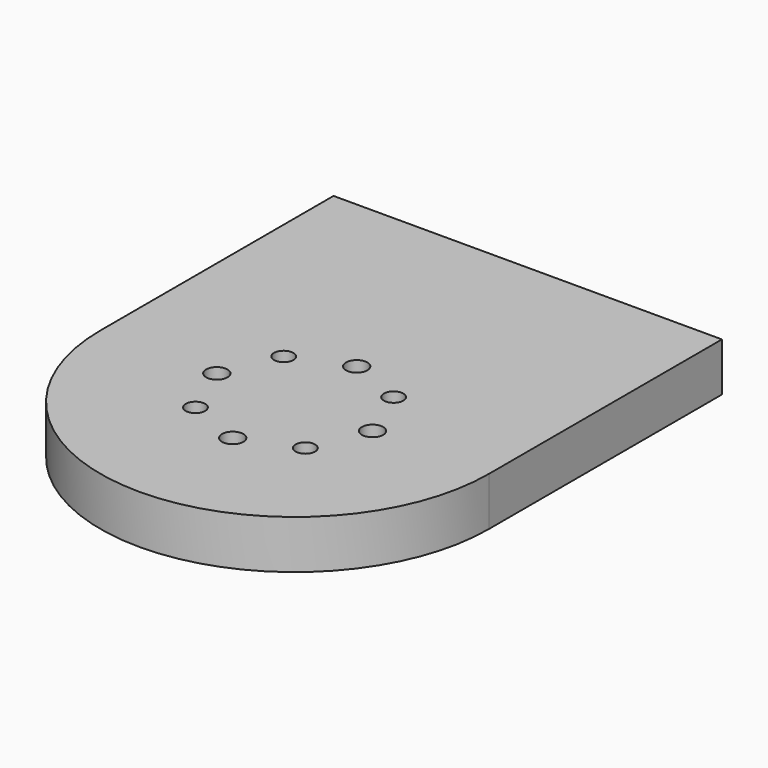
from build123d import *

# Parameters (mm, degrees)
SKETCH_W        = 29
SKETCH_H        = 47
PAD_DEPTH       = 40
SKETCH001_R     = 9.75
PAD001_DEPTH    = 10
SKETCH002_W     = 56
SKETCH002_H     = 6
POCKET_DEPTH    = 100
SKETCH003_W     = 54.44
SKETCH003_H     = 5.76
POCKET001_DEPTH = 40.001
SKETCH004_R     = 1.1
SKETCH004_R_2   = 1
POCKET002_DEPTH = 5
SKETCH005_W     = 54.27
SKETCH005_H     = 70.91
POCKET003_DEPTH = 50.001


with BuildPart() as part:
    # Sketch → Pad (new body)
    with BuildSketch(Plane.XY.offset(10)):
        with BuildLine():
            Line((0, 0), (40, 0))
            Line((40, 0), (40, 60))
            ThreePointArc((40, 60), (20, 68.990653), (0, 60))
            Line((0, 60), (0, 0))
        make_face()
        with Locations((20, 30)):
            Rectangle(SKETCH_W, SKETCH_H, mode=Mode.SUBTRACT)
    extrude(amount=PAD_DEPTH)

    # Sketch001 (on Face9 of Pad) → Pad001 (join)
    with BuildSketch(Plane(origin=(0, 0, 10), x_dir=(1, 0, 0), z_dir=(0, 0, -1))):
        with BuildLine():
            Line((40, -60), (40, 30))
            ThreePointArc((40, 30), (20, 50), (0, 30))
            Line((0, 30), (0, -60))
            ThreePointArc((0, -60), (20, -68.990653), (40, -60))
        make_face()
        with Locations((20, -42.25)):
            Circle(SKETCH001_R, mode=Mode.SUBTRACT)
    extrude(amount=PAD001_DEPTH)

    # Sketch002 (on Face7 of Pad001) → Pocket (cut)
    with BuildSketch(Plane(origin=(0, 0, 0), x_dir=(0, -1, 0), z_dir=(-1, 0, 0))):
        with Locations((-48, 3)):
            Rectangle(SKETCH002_W, SKETCH002_H)
    extrude(amount=-POCKET_DEPTH, mode=Mode.SUBTRACT)

    # Sketch003 (on Face8 of Pocket) → Pocket001 (cut, through all)
    with BuildSketch(Plane.YZ.offset(40)):
        with Locations((-27.22, 7.88)):
            Rectangle(SKETCH003_W, SKETCH003_H)
    extrude(amount=-POCKET001_DEPTH, mode=Mode.SUBTRACT)

    # Sketch004 (on Face12 of Pocket001) → Pocket002 (cut)
    with BuildSketch(Plane(origin=(0, 0, 0), x_dir=(1, 0, 0), z_dir=(0, 0, -1))):
        with Locations((11.98, 30)):
            Circle(SKETCH004_R)
        with Locations((14.34, 35.7)):
            Circle(SKETCH004_R_2)
        with Locations((20, 37.98)):
            Circle(SKETCH004_R)
        with Locations((25.66, 35.7)):
            Circle(SKETCH004_R_2)
        with Locations((28.02, 30)):
            Circle(SKETCH004_R)
        with Locations((25.66, 24.34)):
            Circle(SKETCH004_R_2)
        with Locations((20, 22.02)):
            Circle(SKETCH004_R)
        with Locations((14.34, 24.34)):
            Circle(SKETCH004_R_2)
    extrude(amount=-POCKET002_DEPTH, mode=Mode.SUBTRACT)

    # Sketch005 (on Face12 of Pocket002) → Pocket003 (cut, through all)
    with BuildSketch(Plane(origin=(0, 0, 0), x_dir=(1, 0, 0), z_dir=(0, 0, -1))):
        with Locations((27.135, -35.455)):
            Rectangle(SKETCH005_W, SKETCH005_H)
    extrude(amount=-POCKET003_DEPTH, mode=Mode.SUBTRACT)


solid = part.part
